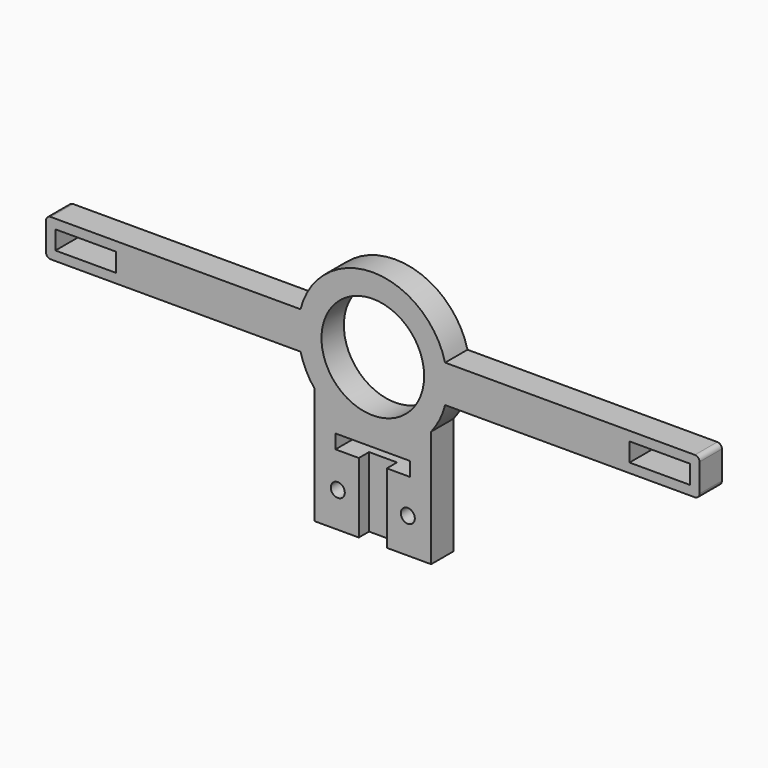
from build123d import *

# Parameters (mm, degrees)
BOX004_W         = 6
BOX004_H         = 2.75
BOX004_DEPTH     = 15
SKETCH023_R      = 11
SKETCH023_R_2    = 1.5
SKETCH023_W      = 13
SKETCH023_H      = 4
SKETCH023_W_2    = 16
SKETCH023_H_2    = 3.01
EXTRUDE015_DEPTH = 6


with BuildPart() as pendulumclampslot:
    # Box004 → Box004 (new body)
    with BuildSketch(Plane(origin=(-3, 15, -85), x_dir=(1, 0, 0), z_dir=(0, 0, 1))):
        with Locations((3, 1.375)):
            Rectangle(BOX004_W, BOX004_H)
    extrude(amount=BOX004_DEPTH)


with BuildPart() as pendulumclampback:
    # Sketch023 → Extrude015 (new body)
    with BuildSketch(Plane(origin=(0, 21, -50), x_dir=(1, 0, 0), z_dir=(0, -1, 0))):
        with BuildLine():
            ThreePointArc((-15.491933, -4), (-14.312568, -7.151951), (-12.5, -9.987492))
            Line((-12.5, -35), (-12.5, -9.987492))
            Line((-12.5, -35), (12.5, -35))
            Line((12.5, -35), (12.5, -9.987492))
            ThreePointArc((12.5, -9.987492), (14.312568, -7.151951), (15.491933, -4))
            Line((15.491933, -4), (69, -4))
            ThreePointArc((69, -4), (69.707107, -3.707107), (70, -3))
            Line((70, -3), (70, 3))
            ThreePointArc((70, 3), (69.707107, 3.707107), (69, 4))
            Line((15.491933, 4), (69, 4))
            ThreePointArc((15.491933, 4), (0, 16), (-15.491933, 4))
            Line((-15.491933, 4), (-69, 4))
            ThreePointArc((-69, 4), (-69.707107, 3.707107), (-70, 3))
            Line((-70, 3), (-70, -3))
            ThreePointArc((-70, -3), (-69.707107, -3.707107), (-69, -4))
            Line((-69, -4), (-15.491933, -4))
        make_face()
        Circle(SKETCH023_R, mode=Mode.SUBTRACT)
        with Locations((-7.5, -27.5)):
            Circle(SKETCH023_R_2, mode=Mode.SUBTRACT)
        with Locations((7.5, -27.5)):
            Circle(SKETCH023_R_2, mode=Mode.SUBTRACT)
        with Locations((-61.5, 0)):
            Rectangle(SKETCH023_W, SKETCH023_H, mode=Mode.SUBTRACT)
        with Locations((61.5, 0)):
            Rectangle(SKETCH023_W, SKETCH023_H, mode=Mode.SUBTRACT)
        with Locations((0, -18.495)):
            Rectangle(SKETCH023_W_2, SKETCH023_H_2, mode=Mode.SUBTRACT)
    extrude(amount=EXTRUDE015_DEPTH)

    # Cut002002008: cut PendulumClampSlot
    add(pendulumclampslot.part, mode=Mode.SUBTRACT)


solid = pendulumclampback.part
